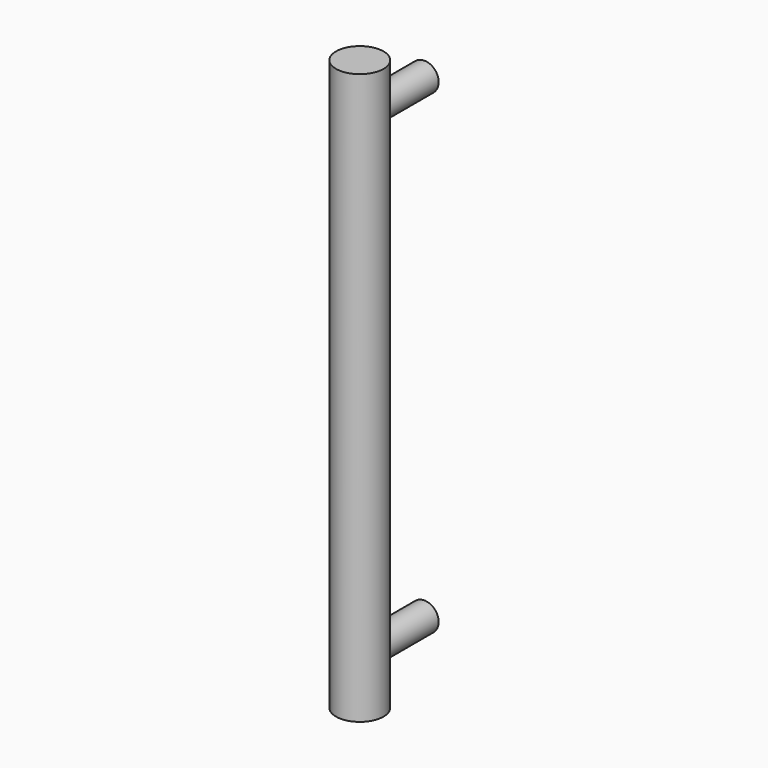
from build123d import *

# Parameters (mm, degrees)
CLONE2D036_R           = 5
OBJ1_DEPTH = 60
CLONE2D034_R           = 3
OBJ2_DEPTH = 17
CLONE2D035_R           = 3
OBJ3 = 17


with BuildPart() as obj1:
    # Clone2D036 (on Sketch) → obj1 (new body, symmetric)
    with BuildSketch(Plane(origin=(471.25, -267, 0), x_dir=(1, 0, 0), z_dir=(0, 0, -1))):
        Circle(CLONE2D036_R)
    extrude(amount=OBJ1_DEPTH, both=True)


with BuildPart() as obj2:
    # Clone2D034 (on Sketch) → obj2 (new body)
    with BuildSketch(Plane(origin=(471.25, -250, -50), x_dir=(0, 0, -1), z_dir=(0, -1, 0))):
        Circle(CLONE2D034_R)
    extrude(amount=OBJ2_DEPTH)


with BuildPart() as clone005:
    with BuildSketch(Plane(origin=(471.25, -250, 50), x_dir=(0, 0, -1), z_dir=(0, -1, 0))):
        Circle(CLONE2D035_R)
    extrude(amount=OBJ3)

    # Fusion011: union obj1, obj2
    add(obj1.part)
    add(obj2.part)


with BuildPart() as clone005_1:
    # Clone005 placement: moved
    add(clone005.part.moved(Location((0, 0, 1700))))


solid = clone005_1.part
